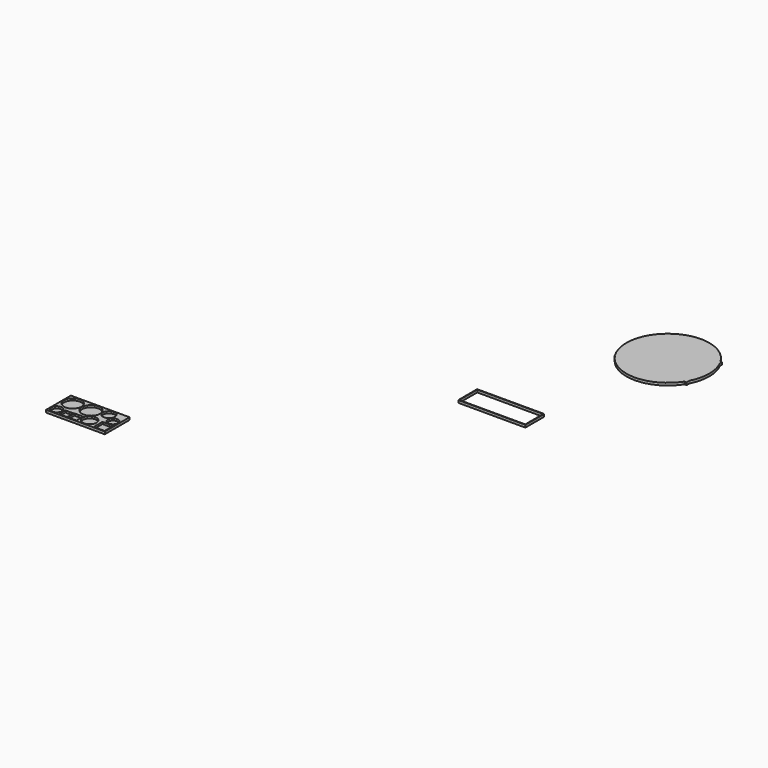
from build123d import *

# Parameters (mm, degrees)
F1_DEPTH = 4
F0_W     = 118.4424577934
F0_H     = 62.4728963787
F0_R     = 10.5
F0_W_2   = 16.2
F0_H_2   = 16.2
F0_R_2   = 17.65
F0_W_3   = 17.4
F0_H_3   = 17
F0_R_3   = 13.75
F0_R_4   = 18.25
F0_R_5   = 12
F0_R_6   = 10.1
F0_W_4   = 135.4
F0_H_4   = 47.6
F2_DEPTH = 1


with BuildPart() as f1:
    # F0 (on Top) → F1 (new body)
    with BuildSketch(Plane.XY):
        with BuildLine():
            ThreePointArc((-686.6390468597, 458.9270639063), (-679.7373422487, 477.5109614145), (-677.3930641937, 497.1959590912))
            ThreePointArc((-677.3930641937, 497.1959590912), (-679.7373422487, 516.8809567679), (-686.6390468597, 535.4648542761))
            Line((-686.6390468597, 535.4648542761), (-686.6390468597, 458.9270639063))
        make_face()
        with BuildLine():
            Line((-686.6390468597, 458.9270639063), (-686.6390468597, 535.4648542761))
            ThreePointArc((-686.6390468597, 535.4648542761), (-687.9821758707, 537.9762165133), (-689.4098463827, 540.4404999256))
            Line((-689.4098463827, 540.4404999256), (-832.6890468597, 540.4404999256))
            Line((-832.6890468597, 540.4404999256), (-832.6890468597, 453.4126711616))
            ThreePointArc((-832.6890468597, 453.4126711616), (-832.104680652, 452.4726864479), (-831.507953399, 451.5404999256))
            Line((-831.507953399, 451.5404999256), (-690.9181749885, 451.5404999256))
            ThreePointArc((-690.9181749885, 451.5404999256), (-688.6845156605, 455.1792713627), (-686.6390468597, 458.9270639063))
        make_face()
        with BuildLine():
            ThreePointArc((-689.4098463827, 540.4404999256), (-687.9821758707, 537.9762165133), (-686.6390468597, 535.4648542761))
            Line((-686.6390468597, 535.4648542761), (-686.6390468597, 540.4404999256))
            Line((-686.6390468597, 540.4404999256), (-689.4098463827, 540.4404999256))
        make_face()
        with BuildLine():
            Line((-686.6390468597, 451.5404999256), (-686.6390468597, 458.9270639063))
            ThreePointArc((-686.6390468597, 458.9270639063), (-688.6845156605, 455.1792713627), (-690.9181749885, 451.5404999256))
            Line((-690.9181749885, 451.5404999256), (-686.6390468597, 451.5404999256))
        make_face()
        with BuildLine():
            Line((-832.6890468597, 540.4404999256), (-689.4098463827, 540.4404999256))
            ThreePointArc((-689.4098463827, 540.4404999256), (-804.7272861856, 568.8360657665), (-832.6890468597, 453.4126711616))
            Line((-832.6890468597, 453.4126711616), (-832.6890468597, 540.4404999256))
        make_face()
        with BuildLine():
            ThreePointArc((-831.507953399, 451.5404999256), (-761.2130641937, 413.3759590912), (-690.9181749885, 451.5404999256))
            Line((-690.9181749885, 451.5404999256), (-831.507953399, 451.5404999256))
        make_face()
        with BuildLine():
            ThreePointArc((-831.507953399, 451.5404999256), (-832.104680652, 452.4726864479), (-832.6890468597, 453.4126711616))
            Line((-832.6890468597, 453.4126711616), (-832.6890468597, 451.5404999256))
            Line((-832.6890468597, 451.5404999256), (-831.507953399, 451.5404999256))
        make_face()
    extrude(amount=F1_DEPTH)

    # F0 (on Top) → F2 (join)
    with BuildSketch(Plane.XY):
        with BuildLine():
            ThreePointArc((-686.6390468597, 458.9270639063), (-679.7373422487, 477.5109614145), (-677.3930641937, 497.1959590912))
            ThreePointArc((-677.3930641937, 497.1959590912), (-679.7373422487, 516.8809567679), (-686.6390468597, 535.4648542761))
            Line((-686.6390468597, 535.4648542761), (-686.6390468597, 458.9270639063))
        make_face()
        with BuildLine():
            Line((-686.6390468597, 458.9270639063), (-686.6390468597, 535.4648542761))
            ThreePointArc((-686.6390468597, 535.4648542761), (-687.9821758707, 537.9762165133), (-689.4098463827, 540.4404999256))
            Line((-689.4098463827, 540.4404999256), (-832.6890468597, 540.4404999256))
            Line((-832.6890468597, 540.4404999256), (-832.6890468597, 453.4126711616))
            ThreePointArc((-832.6890468597, 453.4126711616), (-832.104680652, 452.4726864479), (-831.507953399, 451.5404999256))
            Line((-831.507953399, 451.5404999256), (-690.9181749885, 451.5404999256))
            ThreePointArc((-690.9181749885, 451.5404999256), (-688.6845156605, 455.1792713627), (-686.6390468597, 458.9270639063))
        make_face()
        with BuildLine():
            ThreePointArc((-689.4098463827, 540.4404999256), (-687.9821758707, 537.9762165133), (-686.6390468597, 535.4648542761))
            Line((-686.6390468597, 535.4648542761), (-686.6390468597, 540.4404999256))
            Line((-686.6390468597, 540.4404999256), (-689.4098463827, 540.4404999256))
        make_face()
        with BuildLine():
            Line((-686.6390468597, 451.5404999256), (-686.6390468597, 458.9270639063))
            ThreePointArc((-686.6390468597, 458.9270639063), (-688.6845156605, 455.1792713627), (-690.9181749885, 451.5404999256))
            Line((-690.9181749885, 451.5404999256), (-686.6390468597, 451.5404999256))
        make_face()
        with BuildLine():
            Line((-832.6890468597, 540.4404999256), (-689.4098463827, 540.4404999256))
            ThreePointArc((-689.4098463827, 540.4404999256), (-804.7272861856, 568.8360657665), (-832.6890468597, 453.4126711616))
            Line((-832.6890468597, 453.4126711616), (-832.6890468597, 540.4404999256))
        make_face()
        with BuildLine():
            ThreePointArc((-831.507953399, 451.5404999256), (-761.2130641937, 413.3759590912), (-690.9181749885, 451.5404999256))
            Line((-690.9181749885, 451.5404999256), (-831.507953399, 451.5404999256))
        make_face()
        with BuildLine():
            ThreePointArc((-831.507953399, 451.5404999256), (-832.104680652, 452.4726864479), (-832.6890468597, 453.4126711616))
            Line((-832.6890468597, 453.4126711616), (-832.6890468597, 451.5404999256))
            Line((-832.6890468597, 451.5404999256), (-831.507953399, 451.5404999256))
        make_face()
    extrude(amount=-F2_DEPTH)


with BuildPart() as f1b:
    # F0 (on Top) → F1, piece 2 (new body)
    with BuildSketch(Plane.XY):
        with Locations((-1357.0977805248, -221.2056042942)):
            Rectangle(F0_W, F0_H)
        with Locations((-1404.3190094215, -240.4420524836)):
            Circle(F0_R, mode=Mode.SUBTRACT)
        with Locations((-1383.2738094807, -242.8420524836)):
            Rectangle(F0_W_2, F0_H_2, mode=Mode.SUBTRACT)
        with Locations((-1397.1690094215, -209.1191561049)):
            Circle(F0_R_2, mode=Mode.SUBTRACT)
        with Locations((-1364.9738094807, -242.4420524836)):
            Rectangle(F0_W_3, F0_H_3, mode=Mode.SUBTRACT)
        with Locations((-1340.603794799, -237.1920524836)):
            Circle(F0_R_3, mode=Mode.SUBTRACT)
        with Locations((-1359.7738225655, -209.7191561049)):
            Circle(F0_R_4, mode=Mode.SUBTRACT)
        with Locations((-1328.6450577329, -203.4691561049)):
            Circle(F0_R_5, mode=Mode.SUBTRACT)
        Polygon((-1299.3765516281, -250.9420524836), (-1321.3765516281, -250.9420524836), (-1321.3765516281, -228.9420524836), (-1299.3765516281, -228.7469919896), align=None, mode=Mode.SUBTRACT)
        with Locations((-1309.4765516281, -217.2360865438)):
            Circle(F0_R_6, mode=Mode.SUBTRACT)
    extrude(amount=F1_DEPTH)

    # F0 (on Top) → F2, piece 2 (join)
    with BuildSketch(Plane.XY):
        with Locations((-1357.0977805248, -221.2056042942)):
            Rectangle(F0_W, F0_H)
        with Locations((-1404.3190094215, -240.4420524836)):
            Circle(F0_R, mode=Mode.SUBTRACT)
        with Locations((-1383.2738094807, -242.8420524836)):
            Rectangle(F0_W_2, F0_H_2, mode=Mode.SUBTRACT)
        with Locations((-1397.1690094215, -209.1191561049)):
            Circle(F0_R_2, mode=Mode.SUBTRACT)
        with Locations((-1364.9738094807, -242.4420524836)):
            Rectangle(F0_W_3, F0_H_3, mode=Mode.SUBTRACT)
        with Locations((-1340.603794799, -237.1920524836)):
            Circle(F0_R_3, mode=Mode.SUBTRACT)
        with Locations((-1359.7738225655, -209.7191561049)):
            Circle(F0_R_4, mode=Mode.SUBTRACT)
        with Locations((-1328.6450577329, -203.4691561049)):
            Circle(F0_R_5, mode=Mode.SUBTRACT)
        Polygon((-1299.3765516281, -250.9420524836), (-1321.3765516281, -250.9420524836), (-1321.3765516281, -228.9420524836), (-1299.3765516281, -228.7469919896), align=None, mode=Mode.SUBTRACT)
        with Locations((-1309.4765516281, -217.2360865438)):
            Circle(F0_R_6, mode=Mode.SUBTRACT)
        with Locations((-1397.1690094215, -209.1191561049)):
            Circle(F0_R_2)
        with Locations((-1359.7738225655, -209.7191561049)):
            Circle(F0_R_4)
        with Locations((-1328.6450577329, -203.4691561049)):
            Circle(F0_R_5)
        with Locations((-1309.4765516281, -217.2360865438)):
            Circle(F0_R_6)
        Polygon((-1321.3765516281, -228.9420524836), (-1321.3765516281, -250.9420524836), (-1299.3765516281, -250.9420524836), (-1299.3765516281, -228.7469919896), align=None)
        with Locations((-1340.603794799, -237.1920524836)):
            Circle(F0_R_3)
        with Locations((-1364.9738094807, -242.4420524836)):
            Rectangle(F0_W_3, F0_H_3)
        with Locations((-1383.2738094807, -242.8420524836)):
            Rectangle(F0_W_2, F0_H_2)
        with Locations((-1404.3190094215, -240.4420524836)):
            Circle(F0_R)
    extrude(amount=-F2_DEPTH)


with BuildPart() as f1c:
    # F0 (on Top) → F1, piece 3 (new body)
    with BuildSketch(Plane.XY):
        with Locations((-862.2379980087, 203.2270629168)):
            Rectangle(F0_W_4, F0_H_4)
        Polygon((-906.7379980087, 180.6270629168), (-928.7379980087, 180.6270629168), (-928.7379980087, 202.6270629168), (-928.7379980087, 203.8270629168), (-928.7379980087, 225.8270629168), (-906.7379980087, 225.8270629168), (-884.7379980087, 225.8270629168), (-862.7379980087, 225.8270629168), (-840.7379980087, 225.8270629168), (-818.7379980087, 225.8270629168), (-796.7379980087, 225.8270629168), (-795.7379980087, 225.8270629168), (-795.7379980087, 180.6270629168), (-796.7379980087, 180.6270629168), (-818.7379980087, 180.6270629168), (-840.7379980087, 180.6270629168), (-862.7379980087, 180.6270629168), (-884.7379980087, 180.6270629168), align=None, mode=Mode.SUBTRACT)
    extrude(amount=F1_DEPTH)

    # F0 (on Top) → F2, piece 3 (join)
    with BuildSketch(Plane.XY):
        with Locations((-862.2379980087, 203.2270629168)):
            Rectangle(F0_W_4, F0_H_4)
        Polygon((-906.7379980087, 180.6270629168), (-928.7379980087, 180.6270629168), (-928.7379980087, 202.6270629168), (-928.7379980087, 203.8270629168), (-928.7379980087, 225.8270629168), (-906.7379980087, 225.8270629168), (-884.7379980087, 225.8270629168), (-862.7379980087, 225.8270629168), (-840.7379980087, 225.8270629168), (-818.7379980087, 225.8270629168), (-796.7379980087, 225.8270629168), (-795.7379980087, 225.8270629168), (-795.7379980087, 180.6270629168), (-796.7379980087, 180.6270629168), (-818.7379980087, 180.6270629168), (-840.7379980087, 180.6270629168), (-862.7379980087, 180.6270629168), (-884.7379980087, 180.6270629168), align=None, mode=Mode.SUBTRACT)
    extrude(amount=-F2_DEPTH)


solid = Compound([f1.part, f1b.part, f1c.part])
